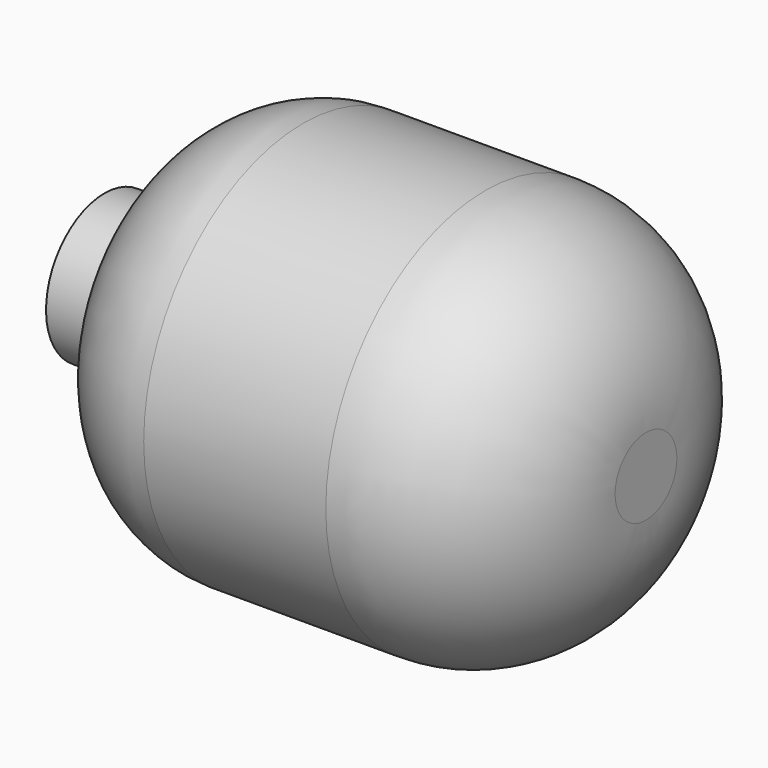
from build123d import *


with BuildPart() as f1:
    # F0 (on Front) → F1 (revolve)
    with BuildSketch(Plane.XZ):
        with BuildLine():
            Line((54.631865, 8.636), (54.631865, 0))
            Line((54.631865, 0), (118.639865, 0))
            Line((118.639865, 0), (118.639865, 4.561351))
            ThreePointArc((118.639865, 4.561351), (113.074894, 17.99638), (99.639865, 23.561351))
            Line((99.639865, 23.561351), (78.116544, 23.561351))
            ThreePointArc((78.116544, 23.561351), (67.132716, 19.256986), (61.997865, 8.636))
            Line((61.997865, 8.636), (54.631865, 8.636))
        make_face()
    revolve(axis=Axis((86.635865, 0, 0), (1, 0, 0)))


solid = f1.part
